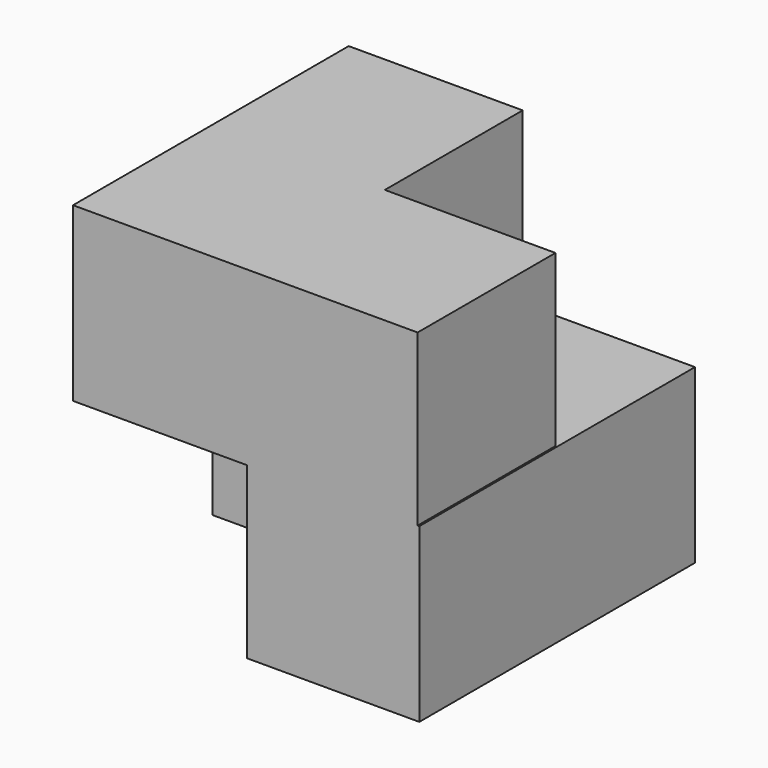
from build123d import *

# Parameters (mm, degrees)
F1_DEPTH = 15
F4_DEPTH = 15


with BuildPart() as f1:
    # F0 (on Top) → F1 (new body)
    with BuildSketch(Plane.XY):
        Polygon((-15, 0), (0, 0), (0, -15), (15, -15), (15, 15), (-15, 15), align=None)
    extrude(amount=F1_DEPTH)

    # F3 (on offset) → F4 (join)
    with BuildSketch(Plane.XY.offset(14.8)):
        Polygon((14.851485, 0), (0, 0), (0, 15), (-15.148515, 15), (-15.148515, -15), (14.851485, -15), align=None)
    extrude(amount=F4_DEPTH)


solid = f1.part
